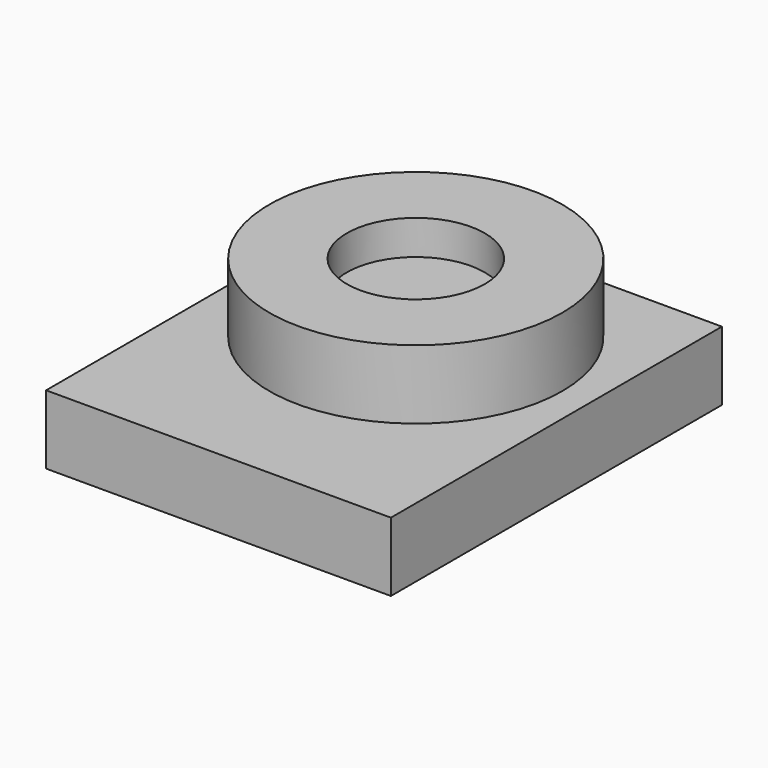
from build123d import *

# Parameters (mm, degrees)
BOX_W        = 10
BOX_H        = 12
BOX_DEPTH    = 2
SKETCH_R     = 4.25
PAD_DEPTH    = 2
SKETCH001_R  = 2
POCKET_DEPTH = 1


with BuildPart() as part:
    # Box → Box (new body)
    with BuildSketch(Plane.XY):
        with Locations((5, 6)):
            Rectangle(BOX_W, BOX_H)
    extrude(amount=BOX_DEPTH)

    # Sketch → Pad (new body)
    with BuildSketch(Plane.XY.offset(2)):
        with Locations((4.904306, 7.272724)):
            Circle(SKETCH_R)
    extrude(amount=PAD_DEPTH)

    # Sketch001 → Pocket (cut)
    with BuildSketch(Plane.XY.offset(4)):
        with Locations((4.904306, 7.272724)):
            Circle(SKETCH001_R)
    extrude(amount=-POCKET_DEPTH, mode=Mode.SUBTRACT)


with BuildPart() as part_1:
    # Clone placement: moved
    add(part.part.moved(Location((1.5, 0, -16))))


solid = part_1.part
